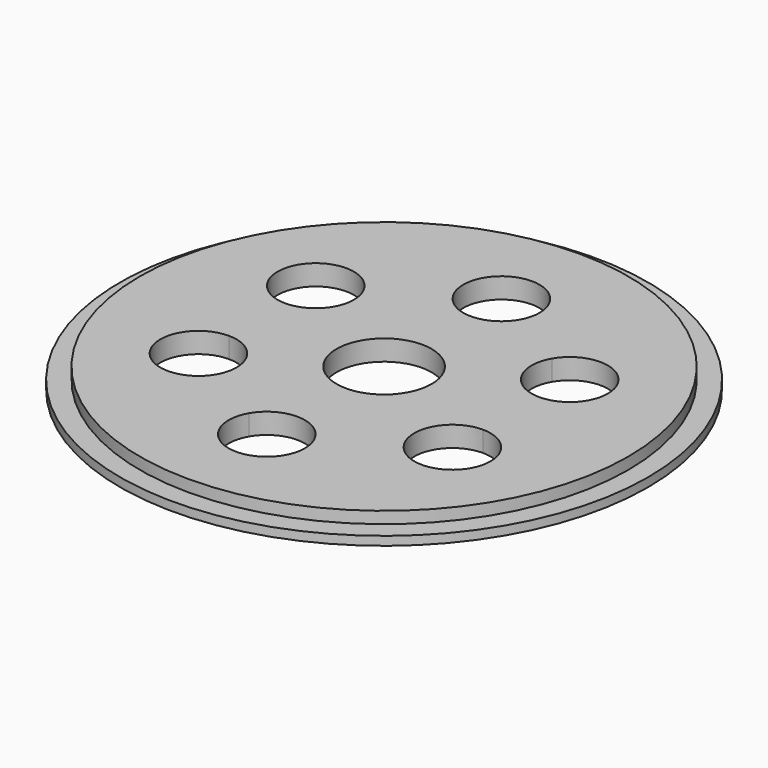
from build123d import *

# Parameters (mm, degrees)
F0_R     = 41.625
F0_R_2   = 8.1
F1_DEPTH = 3.5
F0_R_3   = 45
F2_DEPTH = 1.5


with BuildPart() as f1:
    # F0 (on Top) → F1 (new body)
    with BuildSketch(Plane.XY):
        Circle(F0_R)
        with BuildLine():
            ThreePointArc((6.5, 25), (6.278518, 23.317676), (5.629165, 21.75))
            Line((5.629165, 21.75), (16.02147, 15.75))
            ThreePointArc((16.02147, 15.75), (23.332959, 18.778518), (28.150635, 12.5))
            ThreePointArc((28.150635, 12.5), (26.246829, 7.903806), (21.650635, 6))
            Line((21.650635, 6), (21.650635, -6))
            ThreePointArc((21.650635, -6), (26.246829, -7.903806), (28.150635, -12.5))
            ThreePointArc((28.150635, -12.5), (23.332959, -18.778518), (16.02147, -15.75))
            Line((16.02147, -15.75), (5.629165, -21.75))
            ThreePointArc((5.629165, -21.75), (6.278518, -23.317676), (6.5, -25))
            ThreePointArc((6.5, -25), (-1.682324, -31.278518), (-5.629165, -21.75))
            Line((-5.629165, -21.75), (-16.02147, -15.75))
            ThreePointArc((-16.02147, -15.75), (-27.2798, -15.75), (-21.650635, -6))
            Line((-21.650635, -6), (-21.650635, 6))
            ThreePointArc((-21.650635, 6), (-27.2798, 15.75), (-16.02147, 15.75))
            Line((-16.02147, 15.75), (-5.629165, 21.75))
            ThreePointArc((-5.629165, 21.75), (-1.682324, 31.278518), (6.5, 25))
        make_face(mode=Mode.SUBTRACT)
        with BuildLine():
            Line((16.02147, 15.75), (5.629165, 21.75))
            ThreePointArc((5.629165, 21.75), (0, 18.5), (-5.629165, 21.75))
            Line((-5.629165, 21.75), (-16.02147, 15.75))
            ThreePointArc((-16.02147, 15.75), (-15.372117, 14.182324), (-15.150635, 12.5))
            ThreePointArc((-15.150635, 12.5), (-17.054441, 7.903806), (-21.650635, 6))
            Line((-21.650635, 6), (-21.650635, -6))
            ThreePointArc((-21.650635, -6), (-17.054441, -7.903806), (-15.150635, -12.5))
            ThreePointArc((-15.150635, -12.5), (-15.372117, -14.182324), (-16.02147, -15.75))
            Line((-16.02147, -15.75), (-5.629165, -21.75))
            ThreePointArc((-5.629165, -21.75), (0, -18.5), (5.629165, -21.75))
            Line((5.629165, -21.75), (16.02147, -15.75))
            ThreePointArc((16.02147, -15.75), (16.02147, -9.25), (21.650635, -6))
            Line((21.650635, -6), (21.650635, 6))
            ThreePointArc((21.650635, 6), (16.02147, 9.25), (16.02147, 15.75))
        make_face()
        Circle(F0_R_2, mode=Mode.SUBTRACT)
    extrude(amount=F1_DEPTH)

    # F0 (on Top) → F2 (join)
    with BuildSketch(Plane.XY):
        Circle(F0_R_3)
        Circle(F0_R, mode=Mode.SUBTRACT)
    extrude(amount=F2_DEPTH)


solid = f1.part
